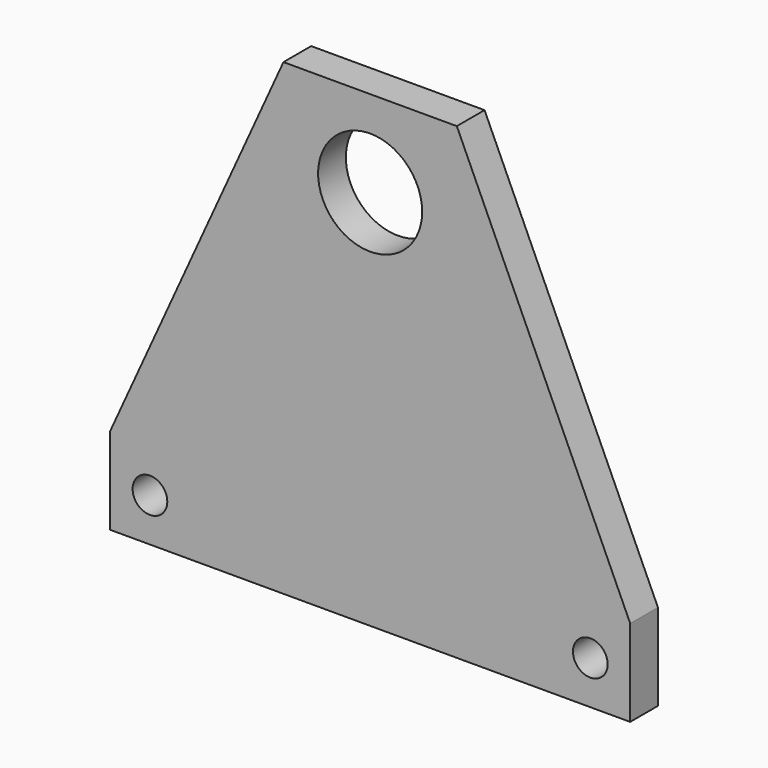
from build123d import *

# Parameters (mm, degrees)
F0_R     = 1
F0_R_2   = 3
F1_DEPTH = 1


with BuildPart() as f1:
    # F0 (on Front) → F1 (new body, symmetric)
    with BuildSketch(Plane.XZ):
        Polygon((-15, 0), (0, 0), (15, 0), (15, 5), (5, 27), (0, 27), (-5, 27), (-15, 5), align=None)
        with Locations((-12.7, 2.5)):
            Circle(F0_R, mode=Mode.SUBTRACT)
        with Locations((12.7, 2.5)):
            Circle(F0_R, mode=Mode.SUBTRACT)
        with Locations((0, 22)):
            Circle(F0_R_2, mode=Mode.SUBTRACT)
    extrude(amount=F1_DEPTH, both=True)


solid = f1.part
